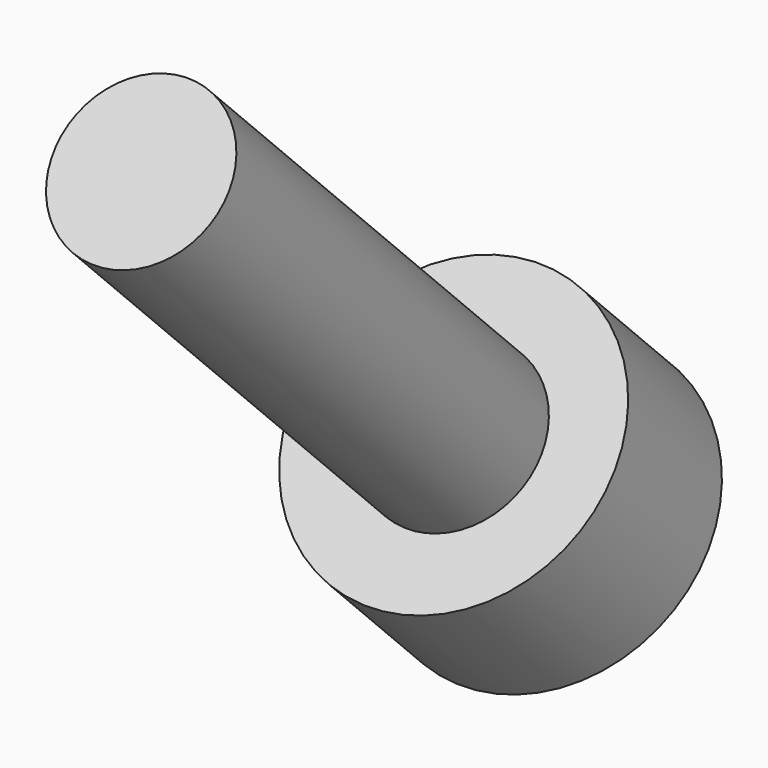
from build123d import *

# Parameters (mm, degrees)
SKETCH022_R             = 2.75
PAD011_DEPTH            = 3
SKETCH023_R             = 1.5
PAD010_DEPTH            = 10
POCKET012_DEPTH         = 4
BODY004_PLACEMENT_ANGLE = 225


with BuildPart() as part:
    # Sketch022 → Pad011 (new body)
    with BuildSketch(Plane.XY):
        Circle(SKETCH022_R)
    extrude(amount=PAD011_DEPTH)

    # Sketch023 (on Face2 of Pad011) → Pad010 (join)
    with BuildSketch(Plane(origin=(0, 0, 0), x_dir=(1, 0, 0), z_dir=(0, 0, -1))):
        Circle(SKETCH023_R)
    extrude(amount=PAD010_DEPTH)

    # Sketch024 (on DatumPlane) → Pocket012 (cut)
    with BuildSketch(Plane.XY.offset(3)):
        Polygon((0.721688, -1.25), (1.443376, 0), (0.721688, 1.25), (-0.721688, 1.25), (-1.443376, 0), (-0.721688, -1.25), align=None)
    extrude(amount=-POCKET012_DEPTH, mode=Mode.SUBTRACT)


with BuildPart() as part_1:
    # Body004 placement: moved
    add(part.part.moved(Location((-108.5, -61.582, 5.72756))).rotate(Axis((-108.5, -61.582, 5.72756), (1, 0, 0)), BODY004_PLACEMENT_ANGLE))


solid = part_1.part
